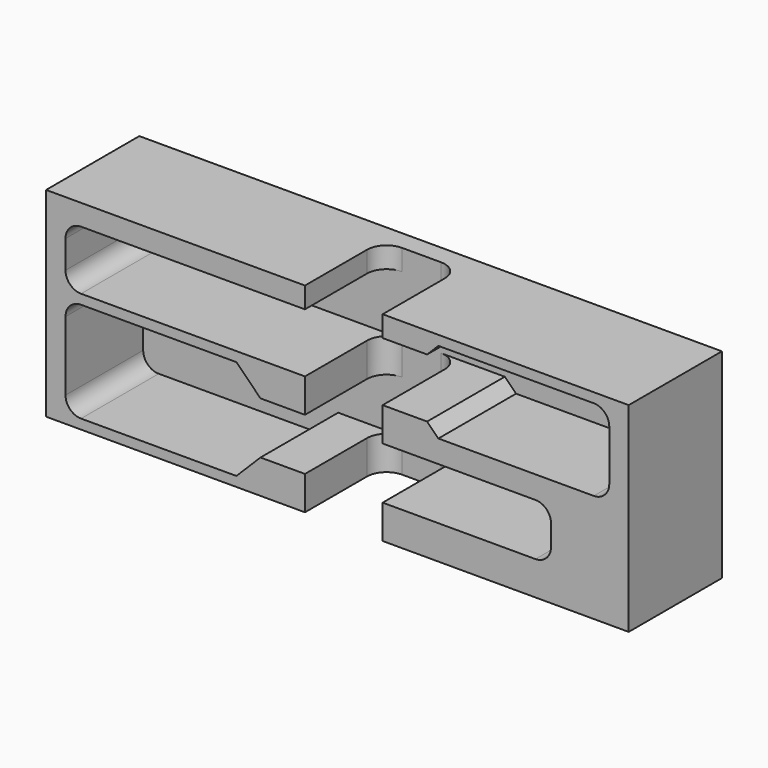
from build123d import *

# Parameters (mm, degrees)
F0_W          = 190.5
F0_H          = 65.278
F1_DEPTH      = 31.75
F1_DEPTH_BACK = 6.35
F3_DEPTH      = 31.75
F4_R          = 5.08
F5_W          = 25.4
F5_H          = 65.278
F6_DEPTH      = 31.75
F7_R          = 6.35


with BuildPart() as f1:
    # F0 (on Front) → F1 (new body, two sides)
    with BuildSketch(Plane.XZ) as f1_sk:
        Rectangle(F0_W, F0_H)
    extrude(amount=F1_DEPTH)
    extrude(f1_sk.sketch, amount=-F1_DEPTH_BACK)

    # F2 (on Front) → F3 (cut, through all)
    with BuildSketch(Plane.XZ):
        Polygon((29.337, 25.781), (-88.9, 25.781), (-88.9, 6.477), (29.337, 6.477), (33.02, 2.794), (88.9, 2.794), (88.9, 29.464), (33.02, 29.464), align=None)
        Polygon((-33.02, 3.302), (-88.9, 3.302), (-88.9, -29.464), (-33.02, -29.464), (-25.146, -21.59), (69.85, -21.59), (69.85, -4.572), (-25.146, -4.572), align=None)
    extrude(amount=F3_DEPTH, mode=Mode.SUBTRACT)

    # F4
    f4_edges = [f1.edges().sort_by_distance(p)[0] for p in [
        (-88.9, -15.875, 3.302),
        (-88.9, -15.875, -29.464),
        (69.85, -15.875, -4.572),
        (69.85, -15.875, -21.59),
        (88.9, -15.875, 2.794),
        (88.9, -15.875, 29.464),
        (-88.9, -15.875, 25.781),
        (-88.9, -15.875, 6.477),
    ]]
    fillet(f4_edges, radius=F4_R)

    # F5 (on face) → F6 (cut)
    with BuildSketch(Plane.XZ.offset(31.75)):
        with Locations((2.0955, 0)):
            Rectangle(F5_W, F5_H)
    extrude(amount=-F6_DEPTH, mode=Mode.SUBTRACT)

    # F7
    f7_edges = [f1.edges().sort_by_distance(p)[0] for p in [
        (14.7955, 0, -27.1145),
        (14.7955, 0, 0.9525),
        (14.7955, 0, 29.21),
        (-10.6045, 0, 29.21),
        (-10.6045, 0, 0.9525),
        (-10.6045, 0, -27.1145),
    ]]
    fillet(f7_edges, radius=F7_R)


solid = f1.part
